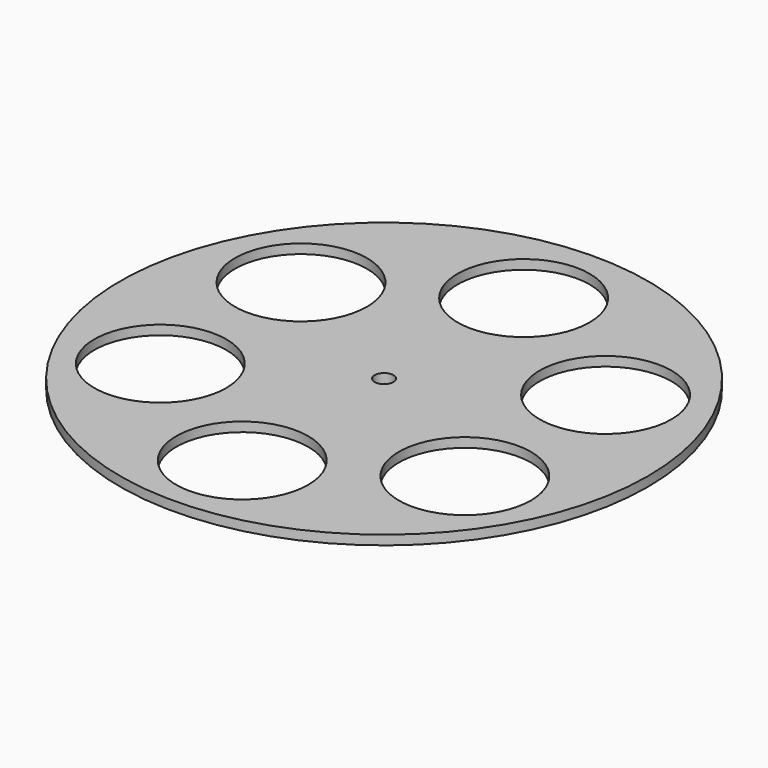
from build123d import *

# Parameters (mm, degrees)
F0_R     = 56
F1_DEPTH = 2
F2_R     = 2
F3_DEPTH = 2
F4_R     = 14
F5_DEPTH = 2


with BuildPart() as f1:
    # F0 (on Top) → F1 (new body)
    with BuildSketch(Plane.XY):
        Circle(F0_R)
    extrude(amount=F1_DEPTH)

    # F2 (on face) → F3 (cut)
    with BuildSketch(Plane.XY.offset(2)):
        Circle(F2_R)
    extrude(amount=-F3_DEPTH, mode=Mode.SUBTRACT)

    # F4 (on face) → F5 (cut)
    with BuildSketch(Plane.XY.offset(2)):
        with Locations((0, 37)):
            Circle(F4_R)
        with Locations((-32.310554, 18.345493)):
            Circle(F4_R)
        with Locations((-32.310554, -18.963521)):
            Circle(F4_R)
        with Locations((0, -37.618028)):
            Circle(F4_R)
        with Locations((32.310554, -18.963521)):
            Circle(F4_R)
        with Locations((32.310554, 18.345493)):
            Circle(F4_R)
    extrude(amount=-F5_DEPTH, mode=Mode.SUBTRACT)


solid = f1.part
